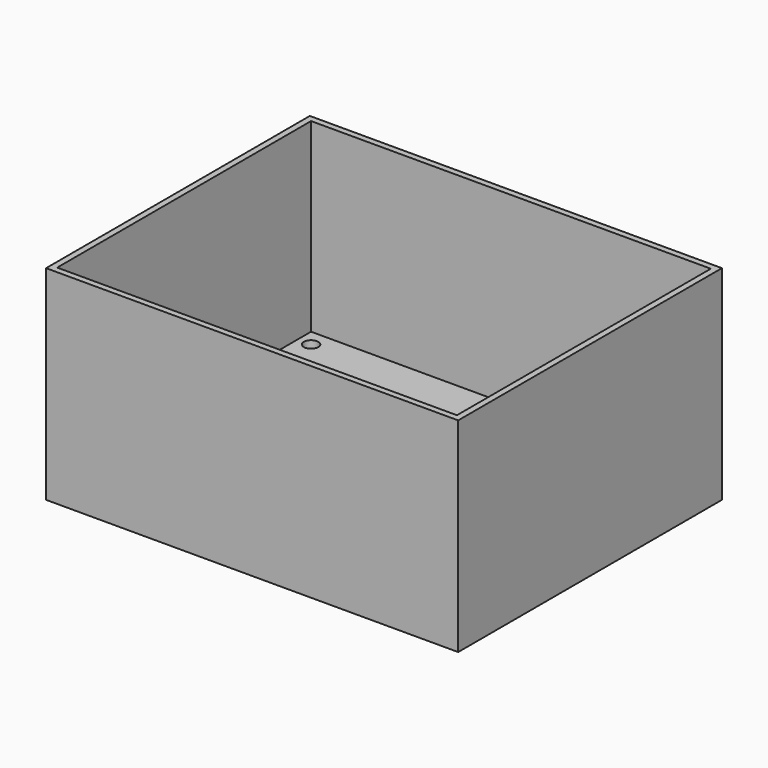
from build123d import *

# Parameters (mm, degrees)
SKETCH004_W     = 100
SKETCH004_H     = 80
SKETCH004_R     = 1.75
PAD003_DEPTH    = 4.5
CHAMFER001_SIZE = 1.5
SKETCH003_W     = 100
SKETCH003_H     = 80
SKETCH003_W_2   = 97
SKETCH003_H_2   = 77
PAD002_DEPTH    = 45


with BuildPart() as part:
    # Sketch004 → Pad003 (new body)
    with BuildSketch(Plane.XY):
        with Locations((-14.266246, -4.330319)):
            Rectangle(SKETCH004_W, SKETCH004_H)
        with Locations((-59.499317, 30.08403)):
            Circle(SKETCH004_R, mode=Mode.SUBTRACT)
        with Locations((28.500683, 29.937424)):
            Circle(SKETCH004_R, mode=Mode.SUBTRACT)
        with Locations((-59.584126, -34.915915)):
            Circle(SKETCH004_R, mode=Mode.SUBTRACT)
        with Locations((28.415874, -35.062521)):
            Circle(SKETCH004_R, mode=Mode.SUBTRACT)
    extrude(amount=PAD003_DEPTH)

    # Chamfer001
    chamfer001_edges = [part.edges().sort_by_distance(p)[0] for p in [
        (-61.334126, -34.915915, 0),
        (26.665874, -35.062521, 0),
        (26.750683, 29.937424, 0),
        (-61.249317, 30.08403, 0),
    ]]
    chamfer(chamfer001_edges, length=CHAMFER001_SIZE)

    # Sketch003 (on Face3 of Chamfer001) → Pad002 (join)
    with BuildSketch(Plane.XY.offset(4.5)):
        with Locations((-14.266246, -4.330319)):
            Rectangle(SKETCH003_W, SKETCH003_H)
        with Locations((-14.266246, -4.330319)):
            Rectangle(SKETCH003_W_2, SKETCH003_H_2, mode=Mode.SUBTRACT)
    extrude(amount=PAD002_DEPTH)


solid = part.part
